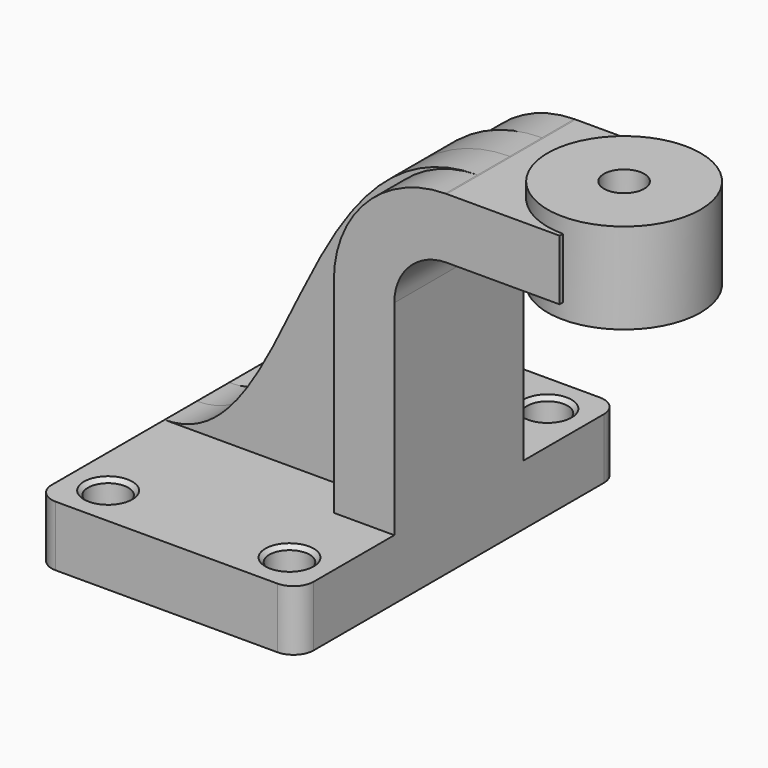
from build123d import *

# Parameters (mm, degrees)
F1_DEPTH       = 63.5
F0_W           = 26.6882655859
F0_H           = 19.05
F2_DEPTH       = 25.4
F3_DEPTH       = 12.7
F5_R           = 6.35
F7_D           = 12.7
F9_D           = 12.7
F9_CSINK_D     = 15.24
F9_CSINK_ANGLE = 90


with BuildPart() as f1:
    # F0 (on Front) → F1 (new body, symmetric)
    with BuildSketch(Plane.XZ):
        Polygon((-41.275, 9.525), (-41.275, -9.525), (41.275, -9.525), (41.275, 9.525), (22.225, 9.525), align=None)
    extrude(amount=F1_DEPTH, both=True)

    # F0 (on Front) → F2 (join, symmetric)
    with BuildSketch(Plane.XZ):
        with BuildLine():
            Line((22.225, 9.525), (41.275, 9.525))
            Line((41.275, 9.525), (41.275, 73.9775))
            ThreePointArc((41.275, 73.9775), (46.1106670426, 85.6518329574), (57.785, 90.4875))
            Line((57.785, 90.4875), (66.675, 90.4875))
            Line((66.675, 90.4875), (66.675, 109.5375))
            Line((66.675, 109.5375), (57.785, 109.5375))
            add(Edge.make_bspline(
                [(57.3658867379, 109.5350300615), (57.5052527002, 109.5364377458), (57.6449566509, 109.5372620063), (57.785, 109.5375)],
                knots=[140.4259734343, 140.4259734343, 140.4259734343, 140.4259734343, 140.7671259785, 140.7671259785, 140.7671259785, 140.7671259785], degree=3))
            ThreePointArc((57.3658867379, 109.5350300615), (32.4925380044, 98.9735990196), (22.225, 73.9775))
            Line((22.225, 73.9775), (22.225, 9.525))
        make_face()
        with Locations((80.019132793, 100.0125)):
            Rectangle(F0_W, F0_H)
    extrude(amount=F2_DEPTH, both=True)

    # F0 (on Front) → F3 (join, symmetric)
    with BuildSketch(Plane.XZ):
        with BuildLine():
            add(Edge.make_bspline(
                [(-41.275, 9.525), (-0.1000309637, 9.525), (-0.0002424275, 108.9555959023), (57.3658867379, 109.5350300615)],
                knots=[0, 0, 0, 0, 140.4259734343, 140.4259734343, 140.4259734343, 140.4259734343], degree=3))
            Line((-41.275, 9.525), (22.225, 9.525))
            Line((22.225, 9.525), (22.225, 73.9775))
            ThreePointArc((22.225, 73.9775), (32.4925380044, 98.9735990196), (57.3658867379, 109.5350300615))
        make_face()
    extrude(amount=F3_DEPTH, both=True)

    # F0 (on Front) → F4 (revolve)
    with BuildSketch(Plane.XZ):
        Polygon((93.3632655859, 114.3), (93.3632655859, 109.5375), (93.3632655859, 90.4875), (93.3632655859, 85.725), (117.475, 85.725), (117.475, 114.3), align=None)
    revolve(axis=Axis((93.3632655859, 0, 100.0125), (0, 0, 1)))

    # F5
    f5_edges = [f1.edges().sort_by_distance(p)[0] for p in [
        (-41.275, -63.5, 0),
        (41.275, -63.5, 0),
        (-41.275, 63.5, 0),
        (41.275, 63.5, 0),
    ]]
    fillet(f5_edges, radius=F5_R)

    # F7 (through all)
    with Locations(Plane.XY.offset(114.3)):
        with Locations((93.3632655859, 0)):
            Hole(F7_D / 2)

    # F9 (through all)
    with Locations(Plane.XY.offset(9.525)):
        with Locations((-28.575, -50.8), (28.575, -50.8), (28.575, 50.8), (-28.575, 50.8)):
            CounterSinkHole(F9_D / 2, F9_CSINK_D / 2, counter_sink_angle=F9_CSINK_ANGLE)


solid = f1.part
